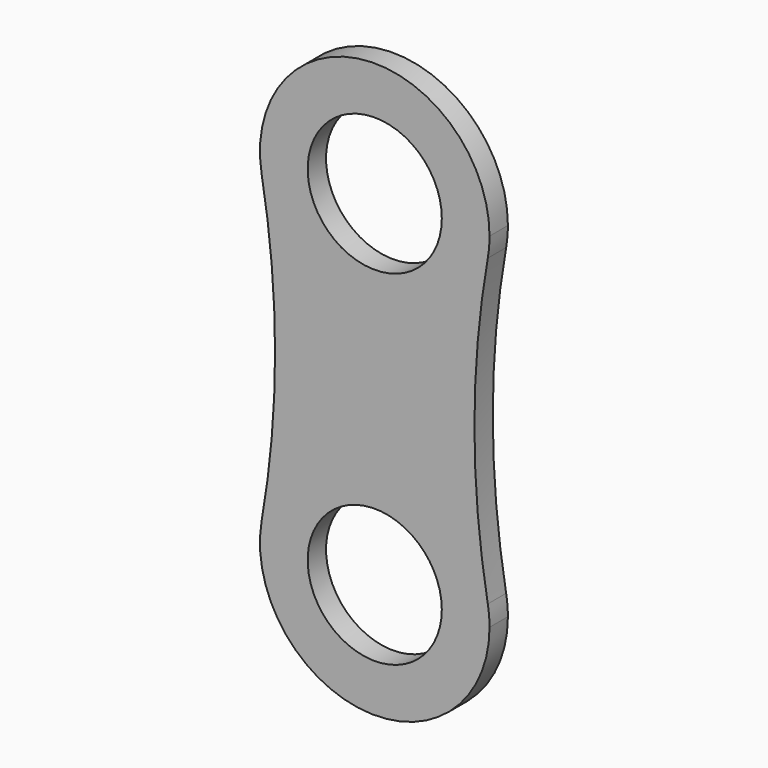
from build123d import *

# Parameters (mm, degrees)
F0_R     = 0.2921
F1_DEPTH = 0.1


with BuildPart() as f1:
    # F0 (on Front) → F1 (new body)
    with BuildSketch(Plane.XZ):
        with BuildLine():
            ThreePointArc((0.492372, -0.087007), (0.498089, -0.04367), (0.5, 0))
            ThreePointArc((0.5, 0), (-0.04367, 0.498089), (-0.492372, -0.087007))
            ThreePointArc((-0.492372, -0.087007), (0, -0.5), (0.492372, -0.087007))
        make_face()
        Circle(F0_R, mode=Mode.SUBTRACT)
        with BuildLine():
            ThreePointArc((0.492372, -0.087007), (0, -0.5), (-0.492372, -0.087007))
            ThreePointArc((-0.492372, -0.087007), (-0.434243, -0.75), (-0.492372, -1.412993))
            ThreePointArc((-0.492372, -1.412993), (0, -1), (0.492372, -1.412993))
            ThreePointArc((0.492372, -1.412993), (0.434243, -0.75), (0.492372, -0.087007))
        make_face()
        with BuildLine():
            ThreePointArc((0.492372, -1.412993), (0, -1), (-0.492372, -1.412993))
            ThreePointArc((-0.492372, -1.412993), (-0.04367, -1.998089), (0.5, -1.5))
            ThreePointArc((0.5, -1.5), (0.498089, -1.45633), (0.492372, -1.412993))
        make_face()
        with Locations((0, -1.5)):
            Circle(F0_R, mode=Mode.SUBTRACT)
    extrude(amount=F1_DEPTH)


solid = f1.part
